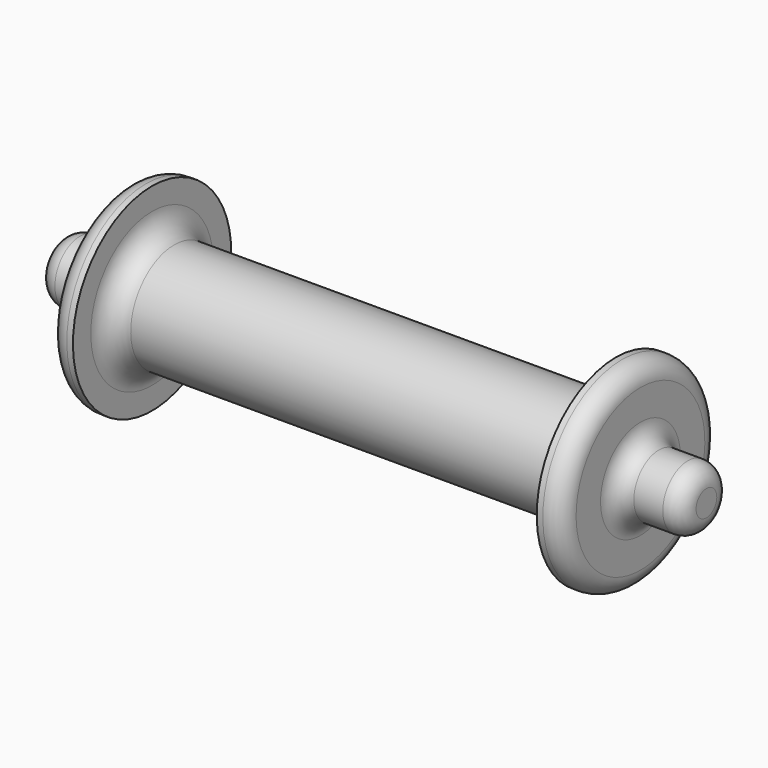
from build123d import *

# Parameters (mm, degrees)
F3_R = 5
F4_R = 5


with BuildPart() as f1:
    # F0 (on Front) → F1 (revolve)
    with BuildSketch(Plane.XZ):
        with BuildLine():
            Line((56.7536008358, 14.730216004), (0, 14.730216004))
            Line((0, 14.730216004), (0, 0))
            Line((0, 0), (87.248198688, 0))
            Line((87.248198688, 0), (87.248198688, 8.4982011467))
            Line((87.248198688, 8.4982011467), (69.4019794464, 8.4982011467))
            Line((69.4019794464, 8.4982011467), (69.4019794464, 11.7778782398))
            Line((69.4019794464, 11.7778782398), (69.4019794464, 26.7778782398))
            Line((69.4019794464, 26.7778782398), (62.7536008358, 26.7778782398))
            Line((62.7536008358, 26.7778782398), (62.7536008358, 20.730216004))
            ThreePointArc((62.7536008358, 20.730216004), (60.9962415229, 16.4875753168), (56.7536008358, 14.730216004))
        make_face()
    revolve(axis=Axis((43.624099344, 0, 0), (-1, 0, 0)))

    # F2: F1 across face


with BuildPart() as f1_1:
    add(f1.part)
    add(f1.part.mirror(Plane(origin=(0, 0, 0), x_dir=(0, -1, 0), z_dir=(-1, 0, 0))))

    # F3
    f3_edges = [f1_1.edges().sort_by_distance(p)[0] for p in [
        (-87.248199, 0, -8.498201),
        (-69.401979, 0, -26.777878),
    ]]
    fillet(f3_edges, radius=F3_R)

    # F4
    f4_edges = [f1_1.edges().sort_by_distance(p)[0] for p in [
        (69.401979, 0, -26.777878),
        (69.401979, 0, -8.498201),
        (87.248199, 0, -8.498201),
    ]]
    fillet(f4_edges, radius=F4_R)


solid = f1_1.part
